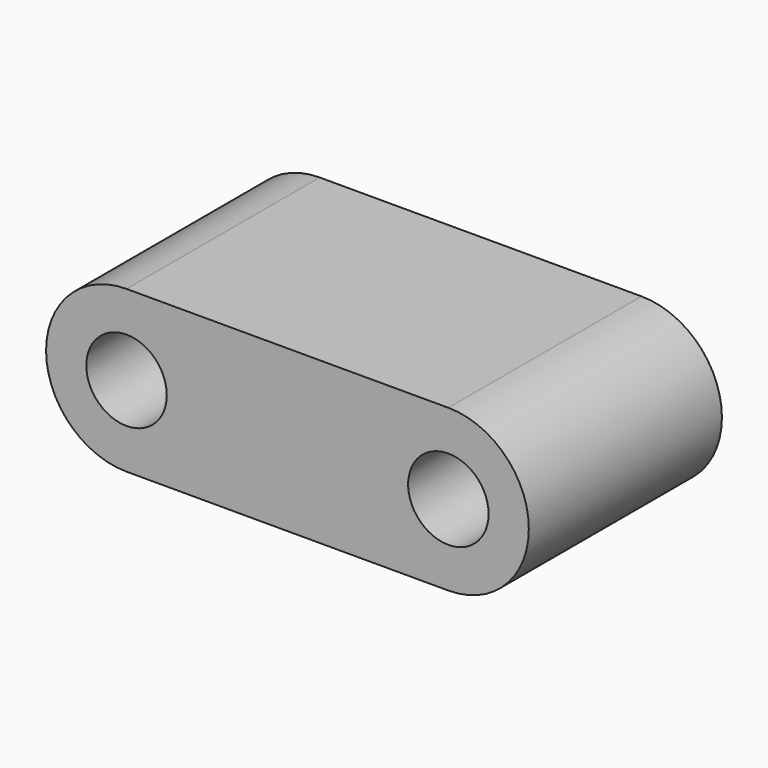
from build123d import *

# Parameters (mm, degrees)
F0_W     = 101.6
F0_H     = 50.8
F1_DEPTH = 76.2
F2_R     = 12.7
F3_DEPTH = 50.8


with BuildPart() as f1:
    # F0 (on Front) → F1 (new body)
    with BuildSketch(Plane.XZ):
        with BuildLine():
            ThreePointArc((-101.6, 50.8), (-127, 25.4), (-101.6, 0))
            Line((-101.6, 0), (-101.6, 50.8))
        make_face()
        with Locations((-50.8, 25.4)):
            Rectangle(F0_W, F0_H)
        with BuildLine():
            Line((0, 50.8), (0, 0))
            ThreePointArc((0, 0), (25.4, 25.4), (0, 50.8))
        make_face()
    extrude(amount=F1_DEPTH)

    # F2 (on face) → F3 (cut)
    with BuildSketch(Plane.XZ.offset(76.2)):
        with Locations((0, 25.4)):
            Circle(F2_R)
        with Locations((-101.6, 25.4)):
            Circle(F2_R)
    extrude(amount=-F3_DEPTH, mode=Mode.SUBTRACT)


solid = f1.part
